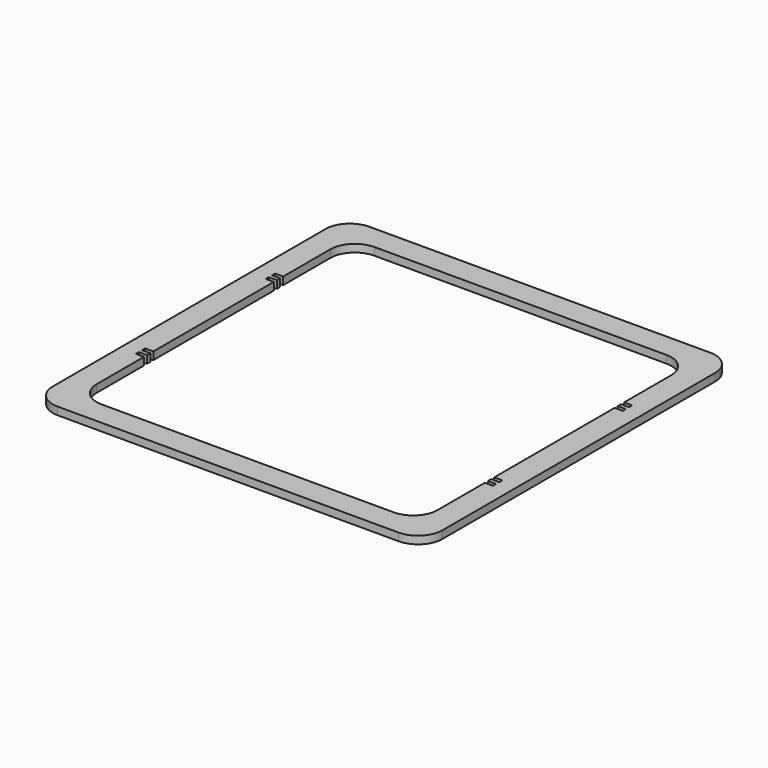
from build123d import *

# Parameters (mm, degrees)
F0_W     = 304.8
F0_H     = 304.8
F1_DEPTH = 6
F2_R     = 19.05


with BuildPart() as f1:
    # F0 (on Top) → F1 (new body)
    with BuildSketch(Plane.XY):
        with Locations((152.4, 152.4)):
            Rectangle(F0_W, F0_H)
        Polygon((19.05, 220.4875), (19.05, 285.75), (285.75, 285.75), (285.75, 220.4875), (292.1, 220.4875), (292.1, 217.4875), (285.75, 217.4875), (285.75, 214.3125), (292.1, 214.3125), (292.1, 211.3125), (285.75, 211.3125), (285.75, 93.4875), (292.1, 93.4875), (292.1, 90.4875), (285.75, 90.4875), (285.75, 87.3125), (292.1, 87.3125), (292.1, 84.3125), (285.75, 84.3125), (285.75, 19.05), (19.05, 19.05), (19.05, 84.3125), (12.7, 84.3125), (12.7, 87.3125), (19.05, 87.3125), (19.05, 90.4875), (12.7, 90.4875), (12.7, 93.4875), (19.05, 93.4875), (19.05, 211.3125), (12.7, 211.3125), (12.7, 214.3125), (19.05, 214.3125), (19.05, 217.4875), (12.7, 217.4875), (12.7, 220.4875), align=None, mode=Mode.SUBTRACT)
    extrude(amount=F1_DEPTH)

    # F2
    f2_edges = [f1.edges().sort_by_distance(p)[0] for p in [
        (19.05, 285.75, 3),
        (285.75, 285.75, 3),
        (285.75, 19.05, 3),
        (19.05, 19.05, 3),
        (304.8, 0, 3),
        (304.8, 304.8, 3),
        (0, 304.8, 3),
        (0, 0, 3),
    ]]
    fillet(f2_edges, radius=F2_R)


solid = f1.part
